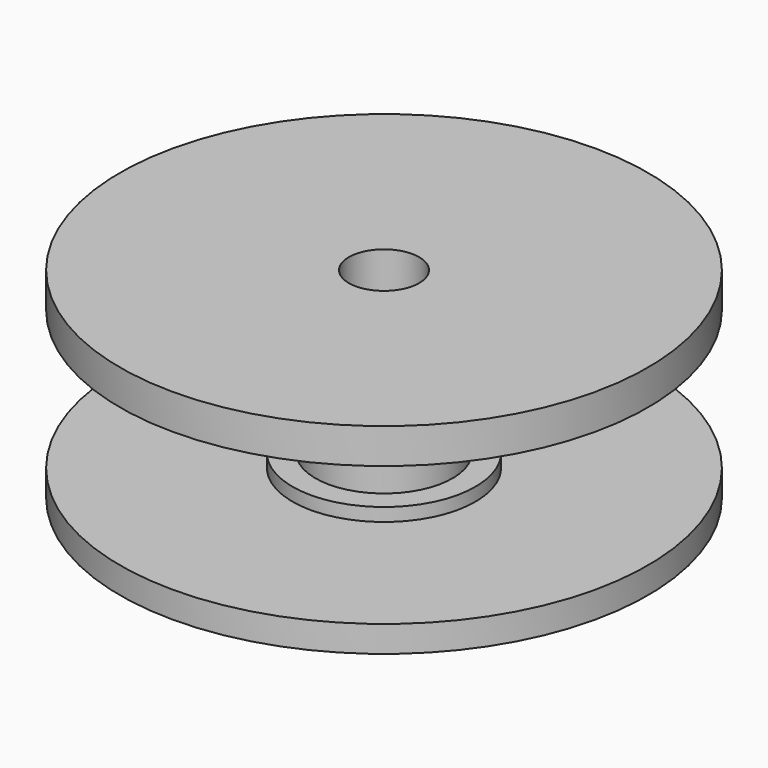
from build123d import *


with BuildPart() as f1:
    # F0 (on Right) → F1 (revolve)
    with BuildSketch(Plane.YZ):
        Polygon((-3.9, 5.65), (-2, 5.65), (-2, 11.4), (-15, 11.4), (-15, 9.4), (-5.2, 9.4), (-5.2, 8.65), (-3.9, 8.65), align=None)
        Polygon((-15, 0), (-2, 0), (-2, 5.25), (-3.9, 5.25), (-3.9, 2.25), (-5.2, 2.25), (-5.2, 1.5), (-15, 1.5), align=None)
    revolve(axis=Axis((0, 0, 12.80953), (0, 0, 1)))


solid = f1.part
